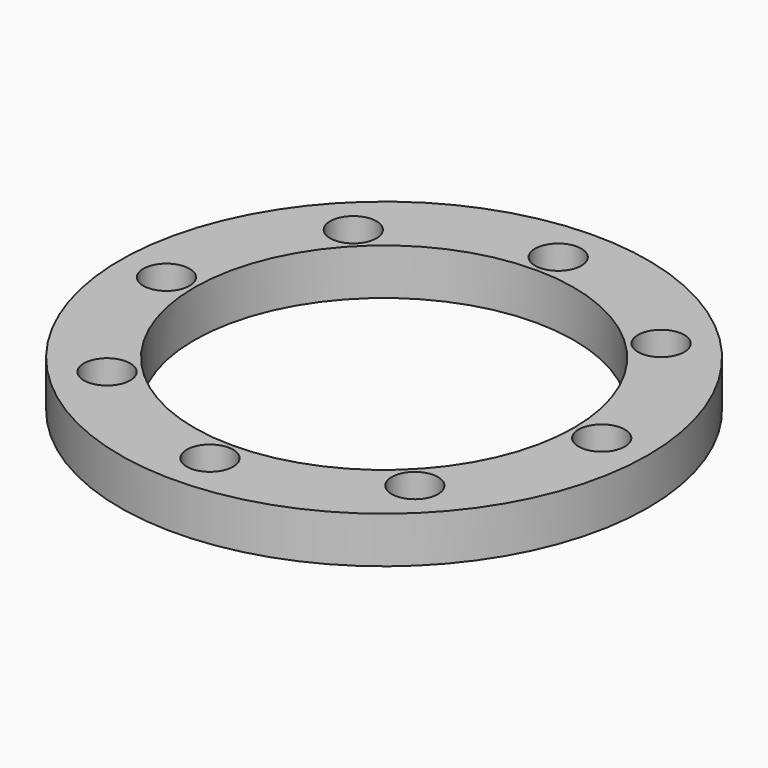
from build123d import *

# Parameters (mm, degrees)
F0_R     = 28.5
F0_R_2   = 2.5
F0_R_3   = 3
F0_R_4   = 20.5
F1_DEPTH = 5
F2_DEPTH = 2


with BuildPart() as f1:
    # F0 (on Top) → F1 (new body)
    with BuildSketch(Plane.XY):
        Circle(F0_R)
        with Locations((-16.6170093579, -16.6170093579)):
            Circle(F0_R_2, mode=Mode.SUBTRACT)
        with Locations((-9.3757440929, -22.6350485465)):
            Circle(F0_R_3, mode=Mode.SUBTRACT)
        with Locations((-22.6350485465, -9.3757440929)):
            Circle(F0_R_3, mode=Mode.SUBTRACT)
        with Locations((0, -23.5)):
            Circle(F0_R_2, mode=Mode.SUBTRACT)
        with Locations((9.3757440929, -22.6350485465)):
            Circle(F0_R_3, mode=Mode.SUBTRACT)
        with Locations((16.6170093579, -16.6170093579)):
            Circle(F0_R_2, mode=Mode.SUBTRACT)
        with Locations((22.6350485465, -9.3757440929)):
            Circle(F0_R_3, mode=Mode.SUBTRACT)
        with Locations((-23.5, 0)):
            Circle(F0_R_2, mode=Mode.SUBTRACT)
        with Locations((-22.6350485465, 9.3757440929)):
            Circle(F0_R_3, mode=Mode.SUBTRACT)
        with Locations((-16.6170093579, 16.6170093579)):
            Circle(F0_R_2, mode=Mode.SUBTRACT)
        with Locations((-9.3757440929, 22.6350485465)):
            Circle(F0_R_3, mode=Mode.SUBTRACT)
        Circle(F0_R_4, mode=Mode.SUBTRACT)
        with Locations((23.5, 0)):
            Circle(F0_R_2, mode=Mode.SUBTRACT)
        with Locations((22.6350485465, 9.3757440929)):
            Circle(F0_R_3, mode=Mode.SUBTRACT)
        with Locations((0, 23.5)):
            Circle(F0_R_2, mode=Mode.SUBTRACT)
        with Locations((9.3757440929, 22.6350485465)):
            Circle(F0_R_3, mode=Mode.SUBTRACT)
        with Locations((16.6170093579, 16.6170093579)):
            Circle(F0_R_2, mode=Mode.SUBTRACT)
        with Locations((-22.6350485465, 9.3757440929)):
            Circle(F0_R_3)
        with Locations((-9.3757440929, 22.6350485465)):
            Circle(F0_R_3)
        with Locations((9.3757440929, 22.6350485465)):
            Circle(F0_R_3)
        with Locations((22.6350485465, 9.3757440929)):
            Circle(F0_R_3)
        with Locations((22.6350485465, -9.3757440929)):
            Circle(F0_R_3)
        with Locations((9.3757440929, -22.6350485465)):
            Circle(F0_R_3)
        with Locations((-9.3757440929, -22.6350485465)):
            Circle(F0_R_3)
        with Locations((-22.6350485465, -9.3757440929)):
            Circle(F0_R_3)
    extrude(amount=F1_DEPTH)

    # F0 (on Top) → F2 (cut)
    with BuildSketch(Plane.XY):
        with Locations((-22.6350485465, -9.3757440929)):
            Circle(F0_R_3)
        with Locations((-9.3757440929, -22.6350485465)):
            Circle(F0_R_3)
        with Locations((9.3757440929, -22.6350485465)):
            Circle(F0_R_3)
        with Locations((22.6350485465, -9.3757440929)):
            Circle(F0_R_3)
        with Locations((22.6350485465, 9.3757440929)):
            Circle(F0_R_3)
        with Locations((9.3757440929, 22.6350485465)):
            Circle(F0_R_3)
        with Locations((-9.3757440929, 22.6350485465)):
            Circle(F0_R_3)
        with Locations((-22.6350485465, 9.3757440929)):
            Circle(F0_R_3)
    extrude(amount=F2_DEPTH, mode=Mode.SUBTRACT)


solid = f1.part
